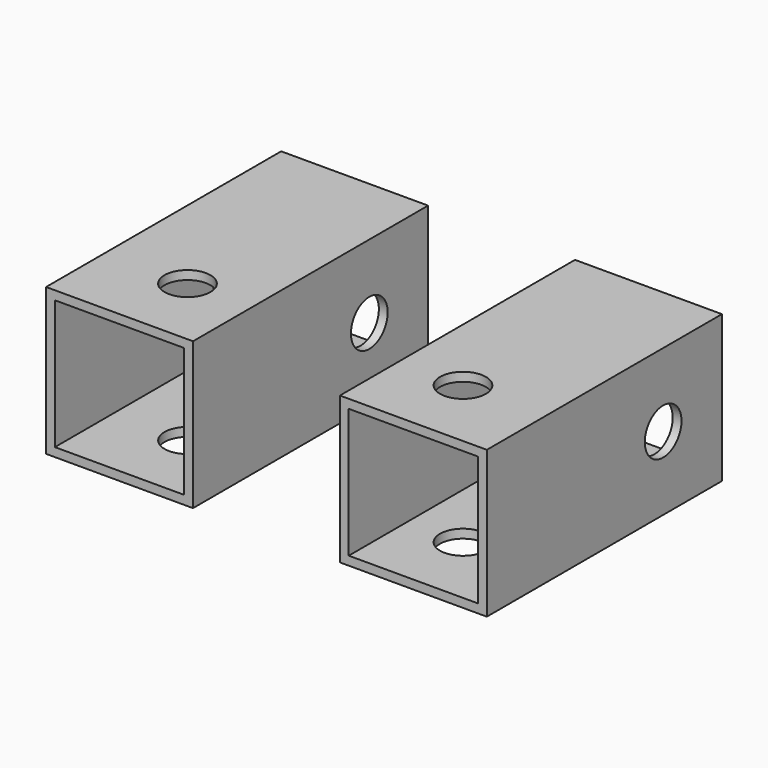
from build123d import *

# Parameters (mm, degrees)
F0_W     = 25.4
F0_H     = 25.4
F0_W_2   = 22.352
F0_H_2   = 22.352
F1_DEPTH = 50.8
F2_R     = 3.96875
F3_DEPTH = 25.401
F4_R     = 3.96875
F5_DEPTH = 76.201


with BuildPart() as f1:
    # F0 (on Front) → F1 (new body)
    with BuildSketch(Plane.XZ):
        with Locations((12.7, 12.7)):
            Rectangle(F0_W, F0_H)
        with Locations((12.7, 12.7)):
            Rectangle(F0_W_2, F0_H_2, mode=Mode.SUBTRACT)
        with Locations((63.5, 12.7)):
            Rectangle(F0_W, F0_H)
        with Locations((63.5, 12.7)):
            Rectangle(F0_W_2, F0_H_2, mode=Mode.SUBTRACT)
    extrude(amount=F1_DEPTH)

    # F2 (on face) → F3 (cut, through all)
    with BuildSketch(Plane.XY.offset(25.4)):
        with Locations((14.2875, -38.1)):
            Circle(F2_R)
        with Locations((61.9125, -38.1)):
            Circle(F2_R)
    extrude(amount=-F3_DEPTH, mode=Mode.SUBTRACT)

    # F4 (on face) → F5 (cut, through all)
    with BuildSketch(Plane(origin=(0, 0, 0), x_dir=(0, -1, 0), z_dir=(-1, 0, 0))):
        with Locations((12.7, 12.7)):
            Circle(F4_R)
    extrude(amount=-F5_DEPTH, mode=Mode.SUBTRACT)


solid = f1.part
